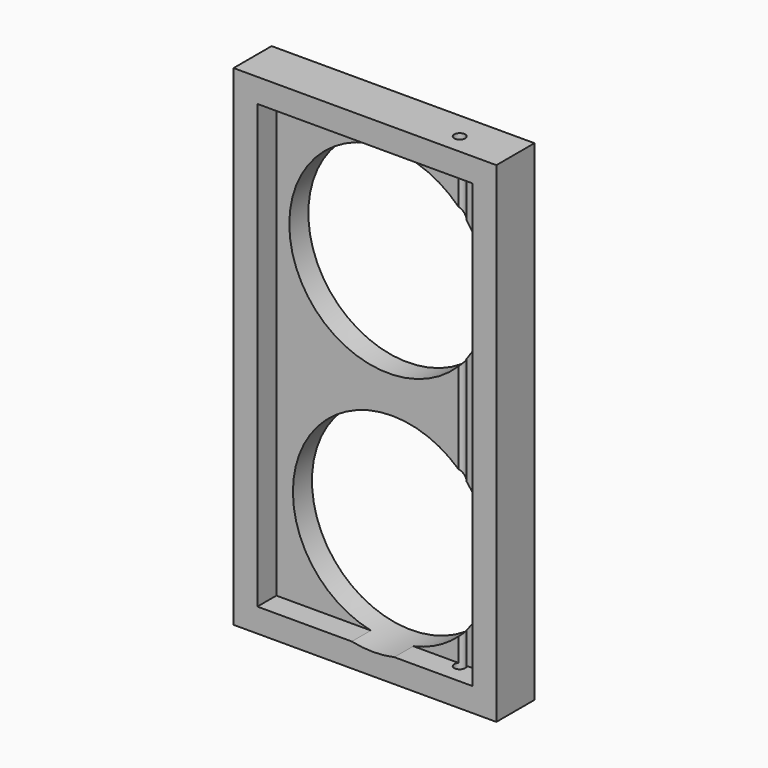
from build123d import *

# Parameters (mm, degrees)
F0_W     = 84.156403
F0_H     = 156.948597
F1_DEPTH = 15.24
F2_T     = -7.62
F4_D     = 63.5
F6_D     = 63.5
F8_D     = 3.5


with BuildPart() as f1:
    # F0 (on Front) → F1 (new body)
    with BuildSketch(Plane.XZ):
        with Locations((-25.185494, 2.457119)):
            Rectangle(F0_W, F0_H)
    extrude(amount=F1_DEPTH)

    # F2
    f2_openings = [f1.faces().sort_by_distance(p)[0] for p in [
        (-25.185495, -15.24, 2.45712),
    ]]
    offset(amount=F2_T, openings=f2_openings)

    # F4 (through all)
    with Locations(Plane(origin=(0, 0, 0), x_dir=(-1, 0, 0), z_dir=(0, 1, 0))):
        with Locations((23.760062, 37.687458)):
            Hole(F4_D / 2)

    # F6 (through all)
    with Locations(Plane(origin=(0, 0, 0), x_dir=(-1, 0, 0), z_dir=(0, 1, 0))):
        with Locations((22.599144, -37.385169)):
            Hole(F6_D / 2)

    # F8 (through all)
    with Locations(Plane(origin=(0, 0, -76.017179), x_dir=(1, 0, 0), z_dir=(0, 0, -1))):
        with Locations((0, 8.793092)):
            Hole(F8_D / 2)


solid = f1.part
